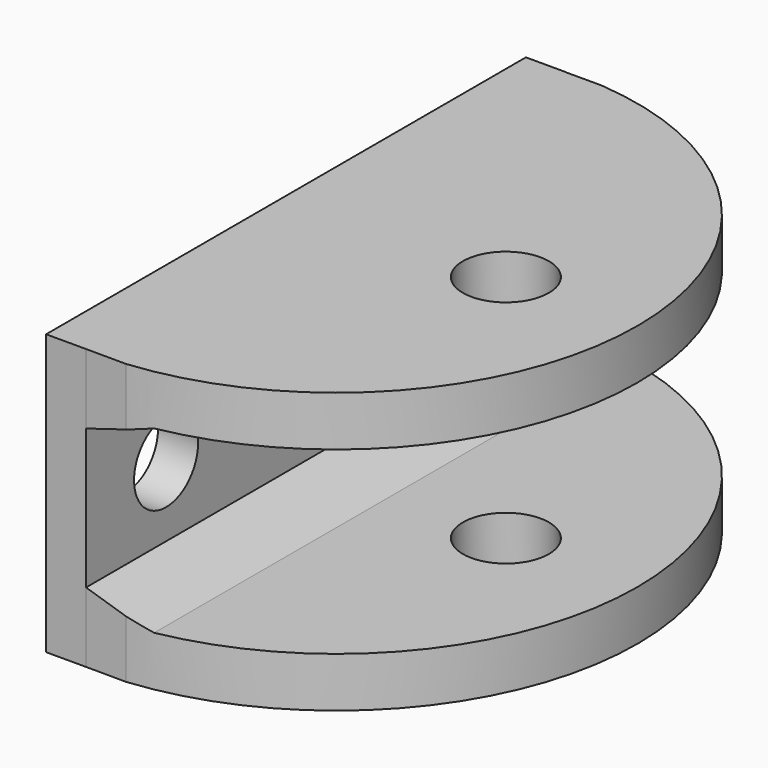
from build123d import *

# Parameters (mm, degrees)
F0_W     = 30
F0_H     = 14
F0_R     = 2
F1_DEPTH = 2
F4_DEPTH = 2.5
F6_SIZE2 = 3.2708526185
F6_SIZE  = 1
F8_R     = 2.15
F9_DEPTH = 14.701


with BuildPart() as f1:
    # F0 (on Right) → F1 (new body)
    with BuildSketch(Plane.YZ):
        Rectangle(F0_W, F0_H)
        with Locations((-10, 0)):
            Circle(F0_R, mode=Mode.SUBTRACT)
        with Locations((10, 0)):
            Circle(F0_R, mode=Mode.SUBTRACT)
    extrude(amount=F1_DEPTH)

    # F3 (on offset) → F4 (join)
    with BuildSketch(Plane.XY.offset(7)):
        with BuildLine():
            ThreePointArc((4.0091983974, -15.0103159249), (17.5963547051, 0.0841872352), (3.8013714597, 14.9889944946))
            Line((3.8013714597, 14.9889944946), (0, 14.9889944946))
            Line((0, 14.9889944946), (0, -14.9888552843))
            Line((0, -14.9888552843), (4.0091983974, -15.0103159249))
        make_face()
    extrude(amount=-F4_DEPTH)

    # F5: F1 across plane


with BuildPart() as f1_1:
    add(f1.part)
    add(f1.part.mirror(Plane.XY))

    # F6
    f6_edges = [f1_1.edges().sort_by_distance(p)[0] for p in [
        (2, -0.005283, 4.5),
        (2, -0.005283, -4.5),
    ]]
    f6_side = f1_1.faces().sort_by_distance((2, 0.003234, 0))[0]
    chamfer(f6_edges, length=F6_SIZE, length2=F6_SIZE2, reference=f6_side)

    # F8 (on offset) → F9 (cut, through all)
    with BuildSketch(Plane.XY.offset(7.7)):
        with Locations((11, 0)):
            Circle(F8_R)
    extrude(amount=-F9_DEPTH, mode=Mode.SUBTRACT)


solid = f1_1.part
